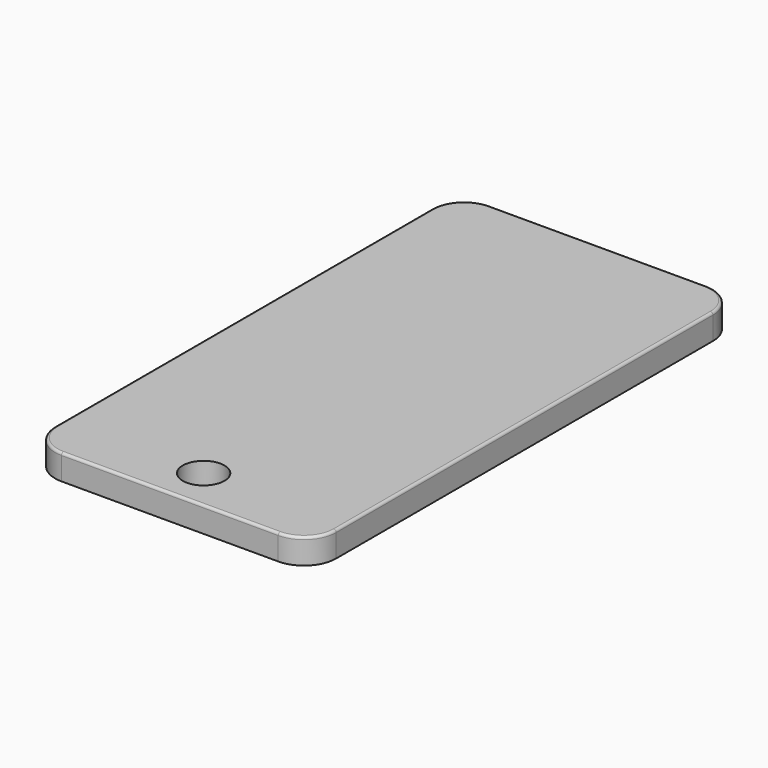
from build123d import *

# Parameters (mm, degrees)
F0_R     = 4.111217
F1_DEPTH = 5
F2_R     = 0.5


with BuildPart() as f1:
    # F0 (on Top) → F1 (new body)
    with BuildSketch(Plane.XY):
        with BuildLine():
            ThreePointArc((27.709091, 46.412728), (25.849219, 50.902856), (21.359091, 52.762728))
            Line((21.359091, 52.762728), (-21.359091, 52.762728))
            ThreePointArc((-21.359091, 52.762728), (-25.849219, 50.902856), (-27.709091, 46.412728))
            Line((-27.709091, 46.412728), (-27.709091, -46.412728))
            ThreePointArc((-27.709091, -46.412728), (-25.849219, -50.902856), (-21.359091, -52.762728))
            Line((-21.359091, -52.762728), (21.359091, -52.762728))
            ThreePointArc((21.359091, -52.762728), (25.849219, -50.902856), (27.709091, -46.412728))
            Line((27.709091, -46.412728), (27.709091, 46.412728))
        make_face()
        with Locations((0, -44.450004)):
            Circle(F0_R, mode=Mode.SUBTRACT)
    extrude(amount=F1_DEPTH)

    # F2
    f2_edges = [f1.edges().sort_by_distance(p)[0] for p in [
        (-25.849219, -50.902856, 5),
    ]]
    fillet(f2_edges, radius=F2_R)


solid = f1.part
